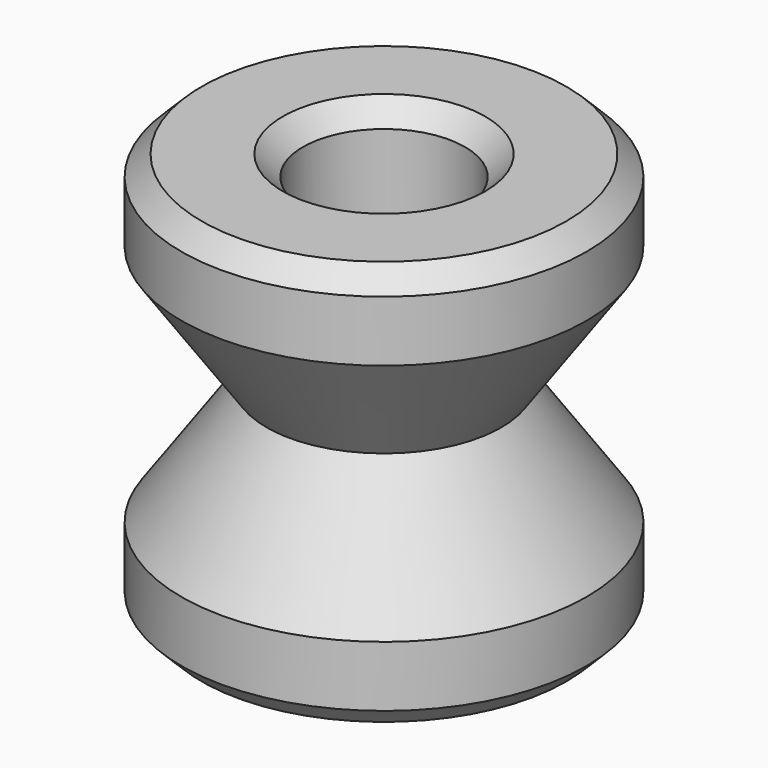
from build123d import *

# Parameters (mm, degrees)
F0_R     = 10
F1_DEPTH = 20
F5_R     = 4
F6_DEPTH = 25
F7_SIZE  = 1


with BuildPart() as f1:
    # F0 (on Top) → F1 (new body)
    with BuildSketch(Plane.XY):
        Circle(F0_R)
    extrude(amount=-F1_DEPTH)

    # F2 (on Right) → F3 (revolve, cut)
    with BuildSketch(Plane.YZ):
        Polygon((10, -16), (10, -4), (5.7987547707, -10), align=None)
    revolve(axis=Axis((0, 0, 0), (0, 0, 1)), mode=Mode.SUBTRACT)

    # F5 (on face) → F6 (cut)
    with BuildSketch(Plane.XY):
        Circle(F5_R)
    extrude(amount=-F6_DEPTH, mode=Mode.SUBTRACT)

    # F7
    f7_edges = [f1.edges().sort_by_distance(p)[0] for p in [
        (-4, 0, -20),
        (-10, 0, -20),
        (-10, 0, 0),
        (-4, 0, 0),
    ]]
    chamfer(f7_edges, length=F7_SIZE)


solid = f1.part
